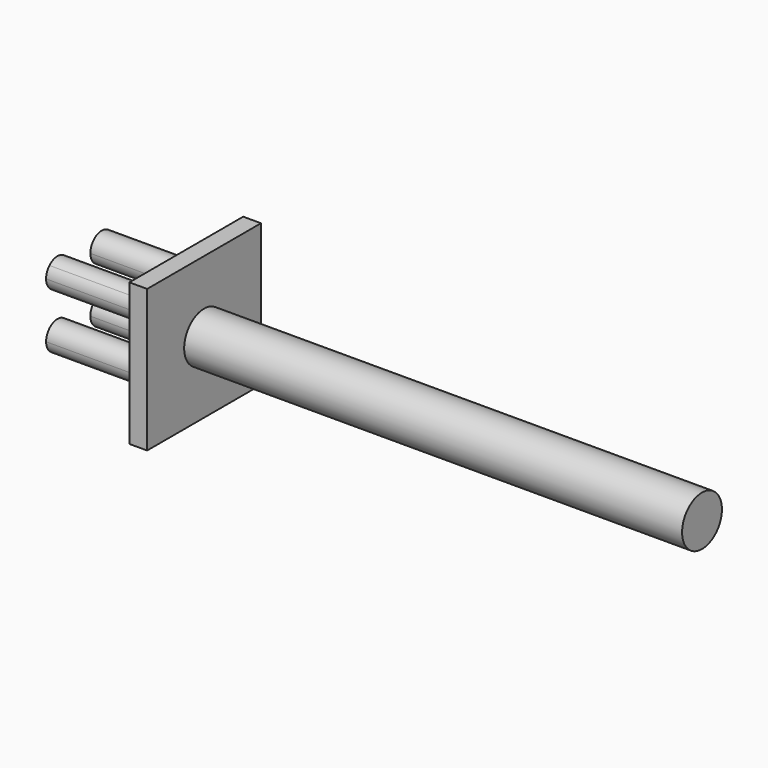
from build123d import *

# Parameters (mm, degrees)
F0_R     = 8.89
F1_DEPTH = 177.8
F2_W     = 50.8
F2_H     = 50.8
F3_DEPTH = 6.35
F5_DEPTH = 38.1


with BuildPart() as f1:
    # F0 (on Right) → F1 (new body)
    with BuildSketch(Plane.YZ):
        Circle(F0_R)
    extrude(amount=F1_DEPTH)

    # F2 (on Right) → F3 (join)
    with BuildSketch(Plane.YZ):
        Rectangle(F2_W, F2_H)
    extrude(amount=-F3_DEPTH)

    # F4 (on face) → F5 (join)
    with BuildSketch(Plane(origin=(-6.35, 0, 0), x_dir=(0, -1, 0), z_dir=(-1, 0, 0))):
        with BuildLine():
            ThreePointArc((6.286179, 6.286179), (11.822314, 5.184974), (14.958282, 9.878282))
            ThreePointArc((14.958282, 9.878282), (14.57159, 11.822314), (13.470384, 13.470384))
            Line((13.470384, 13.470384), (6.286179, 6.286179))
        make_face()
        with BuildLine():
            ThreePointArc((14.95827, -9.87827), (11.822302, -5.184962), (6.286168, -6.286168))
            Line((6.286168, -6.286168), (13.470373, -13.470373))
            ThreePointArc((13.470373, -13.470373), (14.571578, -11.822302), (14.95827, -9.87827))
        make_face()
        with BuildLine():
            Line((13.470373, -13.470373), (6.286168, -6.286168))
            ThreePointArc((6.286168, -6.286168), (6.286168, -13.470373), (13.470373, -13.470373))
        make_face()
        with BuildLine():
            ThreePointArc((-4.798282, -9.878282), (-5.184974, -7.93425), (-6.286179, -6.286179))
            Line((-6.286179, -6.286179), (-13.470384, -13.470384))
            ThreePointArc((-13.470384, -13.470384), (-7.93425, -14.57159), (-4.798282, -9.878282))
        make_face()
        with BuildLine():
            Line((-13.470384, -13.470384), (-6.286179, -6.286179))
            ThreePointArc((-6.286179, -6.286179), (-13.470384, -6.286179), (-13.470384, -13.470384))
        make_face()
        with BuildLine():
            ThreePointArc((-13.470396, 13.470396), (-13.470396, 6.286191), (-6.286191, 6.286191))
            Line((-6.286191, 6.286191), (-13.470396, 13.470396))
        make_face()
        with BuildLine():
            Line((-13.470396, 13.470396), (-6.286191, 6.286191))
            ThreePointArc((-6.286191, 6.286191), (-5.184985, 7.934262), (-4.798293, 9.878293))
            ThreePointArc((-4.798293, 9.878293), (-7.934262, 14.571601), (-13.470396, 13.470396))
        make_face()
        with BuildLine():
            Line((6.286179, 6.286179), (13.470384, 13.470384))
            ThreePointArc((13.470384, 13.470384), (6.286179, 13.470384), (6.286179, 6.286179))
        make_face()
    extrude(amount=F5_DEPTH)


solid = f1.part
